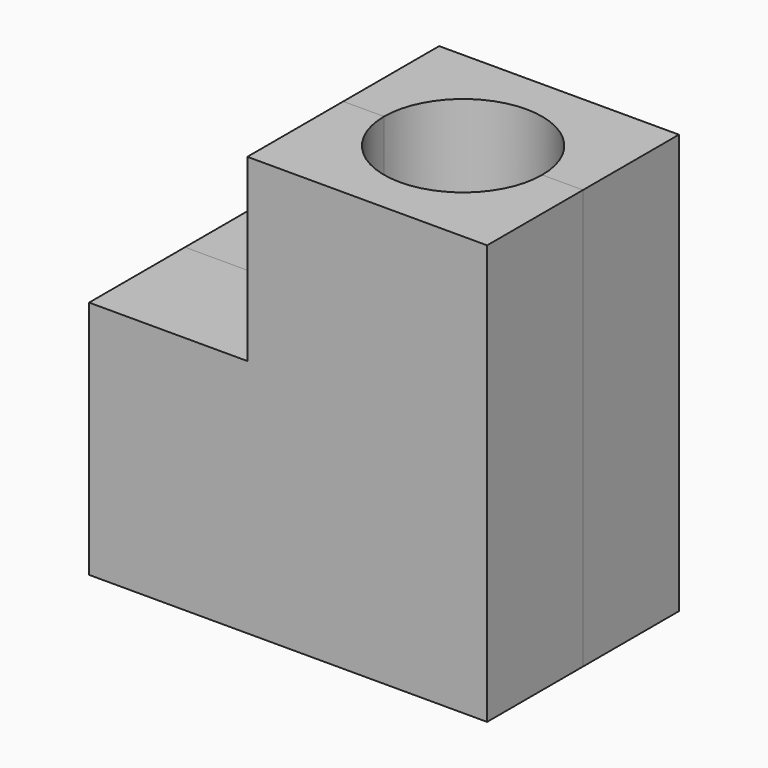
from build123d import *

# Parameters (mm, degrees)
F3_DEPTH = 25.4
F4_DEPTH = 25.4
F0_R     = 16.75
F5_DEPTH = 152.4
F1_R     = 16.75
F6_DEPTH = 157.48


with BuildPart() as f3:
    # F2 (on Front) → F3 (new body)
    with BuildSketch(Plane.XZ):
        Polygon((-25.4, 56.65), (-58.934118, 56.65), (-58.934118, 5.85), (25.4, 5.85), (25.4, 94.75), (-25.4, 94.75), align=None)
    extrude(amount=F3_DEPTH)


with BuildPart() as f4:
    # F2 (on Front) → F4 (new body)
    with BuildSketch(Plane.XZ):
        Polygon((-25.4, 56.65), (-58.934118, 56.65), (-58.934118, 5.85), (25.4, 5.85), (25.4, 94.75), (-25.4, 94.75), align=None)
    extrude(amount=-F4_DEPTH)


with BuildPart() as f5_tool:
    # F0 (on Top) → F5 (new body)
    with BuildSketch(Plane.XY):
        Circle(F0_R)
    extrude(amount=F5_DEPTH)


with BuildPart() as f3_1:
    add(f3.part)

    # F5: cut by f5_tool
    add(f5_tool.part, mode=Mode.SUBTRACT)


with BuildPart() as f4_1:
    add(f4.part)

    # F5: cut by f5_tool
    add(f5_tool.part, mode=Mode.SUBTRACT)


with BuildPart() as f6_tool:
    # F1 (on Right) → F6 (new body)
    with BuildSketch(Plane.YZ):
        with Locations((0, 31.25)):
            Circle(F1_R)
    extrude(amount=-F6_DEPTH)


with BuildPart() as f3_2:
    add(f3_1.part)

    # F6: cut by f6_tool
    add(f6_tool.part, mode=Mode.SUBTRACT)


with BuildPart() as f4_2:
    add(f4_1.part)

    # F6: cut by f6_tool
    add(f6_tool.part, mode=Mode.SUBTRACT)


solid = Compound([f3_2.part, f4_2.part])
